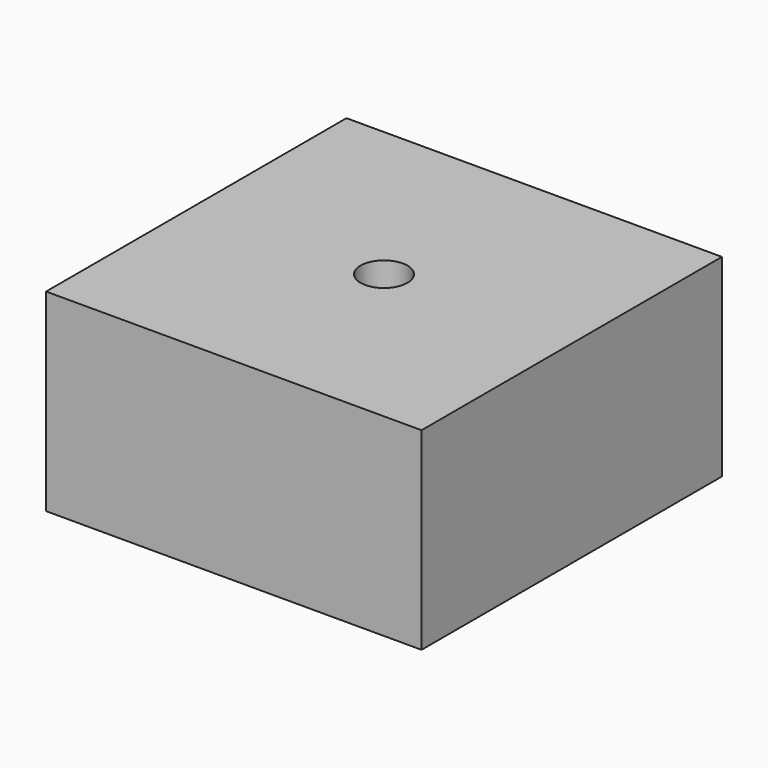
from build123d import *

# Parameters (mm, degrees)
SKETCH_W    = 25.4
SKETCH_H    = 25.4
PAD_DEPTH   = 13.08
SKETCH001_R = 1.585
HOLE_DEPTH  = 13.081


with BuildPart() as part:
    # Sketch → Pad (new body)
    with BuildSketch(Plane.XY):
        Rectangle(SKETCH_W, SKETCH_H)
    extrude(amount=PAD_DEPTH)

    # Sketch001 (on Face6 of Pad) → Hole (cut, through all)
    with BuildSketch(Plane.XY.offset(13.08)):
        Circle(SKETCH001_R)
    extrude(amount=-HOLE_DEPTH, mode=Mode.SUBTRACT)


solid = part.part
